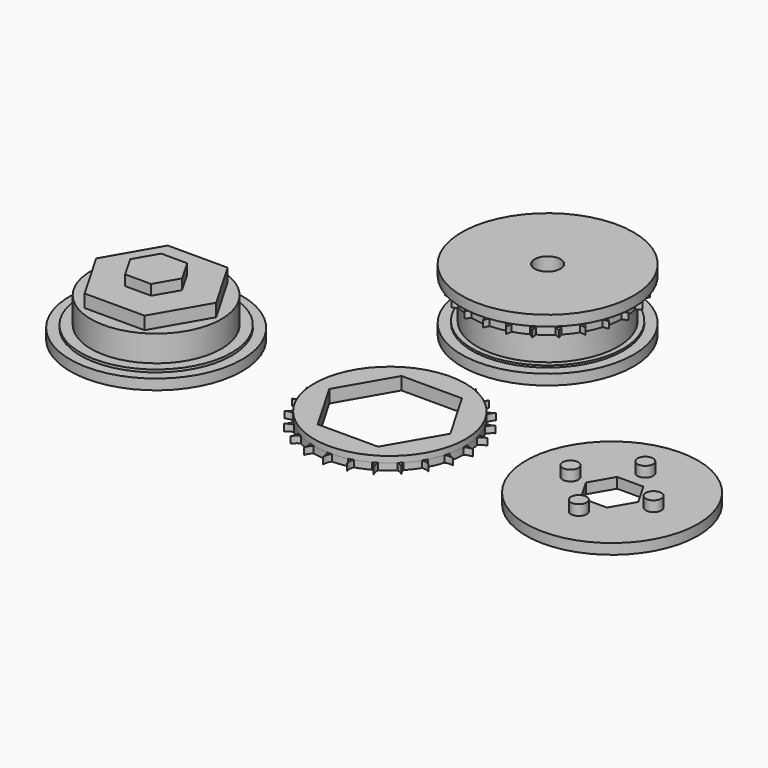
from build123d import *

# Parameters (mm, degrees)
PAD_DEPTH             = 0.6405
POLARPATTERN_COUNT    = 24
BODY_PLACEMENT_ANGLE  = 90
PAD001_DEPTH          = 2.4655
PAD002_DEPTH          = 2
PAD003_DEPTH          = 1.281
POLARPATTERN001_COUNT = 24
SKETCH014_R           = 14.553128
PAD004_DEPTH          = 2.4655
POCKET_DEPTH          = 2.4665
SKETCH016_R           = 16.553128
PAD005_DEPTH          = 2
SKETCH017_R           = 1.505
PAD006_DEPTH          = 2
POLARPATTERN002_COUNT = 4


with BuildPart() as complete:
    # Sketch → Revolution (revolve)
    with BuildSketch(Plane.XY):
        Polygon((2.5, 0), (2.5, 12), (16.553128, 12), (16.553128, 10), (14.553128, 10), (14.553128, 9.62), (13.553128, 9.62), (13.553128, 4.4655), (14.553128, 4.4655), (14.553128, 2), (16.553128, 2), (16.553128, 0), align=None)
    revolve(axis=Axis((0, 0, 0), (0, 1, 0)))

    # Sketch001 → Pad (new body, symmetric)
    with BuildSketch(Plane.XZ.offset(-3.825)):
        Polygon((0, 15.545982), (0.456, 14.545982), (-0.456, 14.545982), align=None)
    pad = extrude(amount=PAD_DEPTH, both=True)

    # PolarPattern: Pad ×24 about axis
    polarpattern_axis = Axis((0, 3.825, 0), (0, -1, 0))
    for i in range(1, POLARPATTERN_COUNT):
        add(pad.rotate(polarpattern_axis, i * 360 / POLARPATTERN_COUNT))


with BuildPart() as complete_1:
    # Body placement: moved
    add(complete.part.moved(Location((0, 37, 12))).rotate(Axis((0, 37, 12), (-1, 0, 0)), BODY_PLACEMENT_ANGLE))


with BuildPart() as wheel:
    # Sketch008 → Revolution001 (revolve)
    with BuildSketch(Plane.XZ):
        Polygon((2.55, 0), (16.553128, 0), (16.553128, 2), (14.553128, 2), (14.553128, 2.5), (12.553128, 2.5), (12.553128, 7.5345), (2.55, 7.5345), align=None)
    revolve(axis=Axis((0, 0, 0), (0, 0, 1)))

    # Sketch009 (on Face7 of Revolution001) → Pad001 (new body)
    with BuildSketch(Plane(origin=(0, 0, 7.5345), x_dir=(-1, 0, 0), z_dir=(0, 0, 1))):
        Polygon((11.553128, 0), (5.776564, 10.005302), (-5.776564, 10.005302), (-11.553128, 0), (-5.776564, -10.005302), (5.776564, -10.005302), align=None)
    extrude(amount=PAD001_DEPTH)

    # Sketch010 (on Face16 of Pad001) → Pad002 (join)
    with BuildSketch(Plane(origin=(0, 0, 10), x_dir=(-1, 0, 0), z_dir=(0, 0, 1))):
        Polygon((5, 0), (2.5, 4.330127), (-2.5, 4.330127), (-5, 0), (-2.5, -4.330127), (2.5, -4.330127), align=None)
    extrude(amount=PAD002_DEPTH)


with BuildPart() as wheel_1:
    # Body001 placement: moved
    add(wheel.part.moved(Location((-45, -1, 0))))


with BuildPart() as sprockets:
    # Sketch012 → Pad003 (new body)
    with BuildSketch(Plane.XY):
        with BuildLine():
            ThreePointArc((-0.456, 14.545982), (0, -14.553128), (0.456, 14.545982))
            ThreePointArc((0, 16.045982), (0.116519, 15.262092), (0.456, 14.545982))
            ThreePointArc((-0.456, 14.545982), (-0.116519, 15.262092), (0, 16.045982))
        make_face()
    pad003 = extrude(amount=PAD003_DEPTH)

    # PolarPattern001: Pad003 ×24 about axis
    polarpattern001_axis = Axis((0, 0, 0), (0, 0, 1))
    for i in range(1, POLARPATTERN001_COUNT):
        add(pad003.rotate(polarpattern001_axis, i * 360 / POLARPATTERN001_COUNT))

    # Sketch014 → Pad004 (join)
    with BuildSketch(Plane.XY):
        Circle(SKETCH014_R)
    extrude(amount=PAD004_DEPTH)

    # Sketch015 → Pocket (cut, through all)
    with BuildSketch(Plane.XY.offset(2.4655)):
        Polygon((11.653128, 0), (5.826564, 10.091905), (-5.826564, 10.091905), (-11.653128, 0), (-5.826564, -10.091905), (5.826564, -10.091905), align=None)
    extrude(amount=-POCKET_DEPTH, mode=Mode.SUBTRACT)


with BuildPart() as sprockets_1:
    # Body002 placement: moved
    add(sprockets.part.moved(Location((0, -1, 0))))


with BuildPart() as connector:
    # Sketch016 → Pad005 (new body)
    with BuildSketch(Plane.XY):
        Circle(SKETCH016_R)
        Polygon((5.05, 0), (2.525, 4.373428), (-2.525, 4.373428), (-5.05, 0), (-2.525, -4.373428), (2.525, -4.373428), align=None, mode=Mode.SUBTRACT)
    extrude(amount=PAD005_DEPTH)

    # Sketch017 (on Face9 of Pad005) → Pad006 (join)
    with BuildSketch(Plane.XY.offset(2)):
        with Locations((8, 0)):
            Circle(SKETCH017_R)
    pad006 = extrude(amount=PAD006_DEPTH)

    # PolarPattern002: Pad006 ×4 about axis
    polarpattern002_axis = Axis((0, 0, 2), (0, 0, 1))
    for i in range(1, POLARPATTERN002_COUNT):
        add(pad006.rotate(polarpattern002_axis, i * 360 / POLARPATTERN002_COUNT))


with BuildPart() as connector_1:
    # Body003 placement: moved
    add(connector.part.moved(Location((42, 0, 0))))


solid = Compound([complete_1.part, wheel_1.part, sprockets_1.part, connector_1.part])
